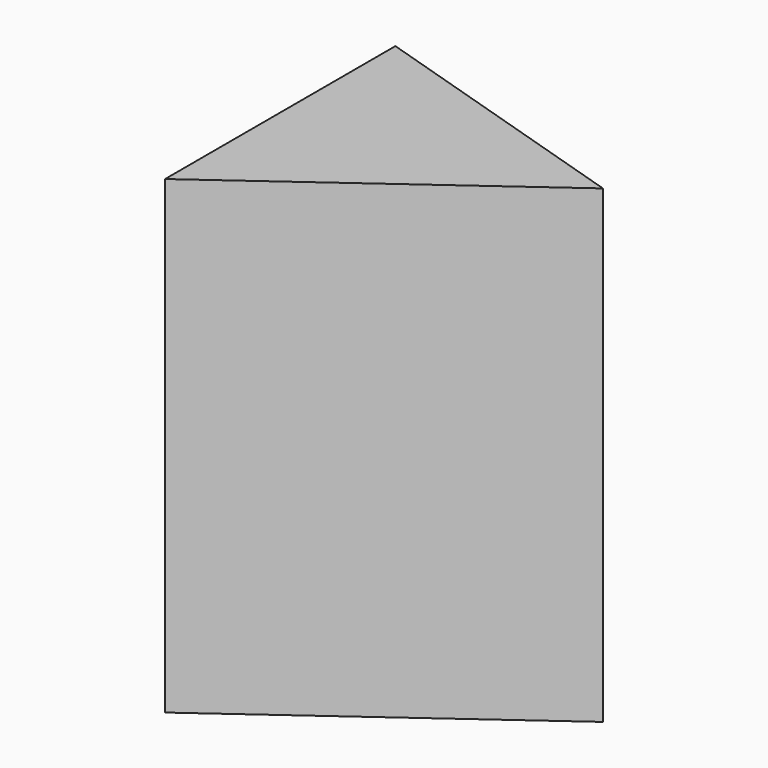
from build123d import *

# Parameters (mm, degrees)
F1_DEPTH = 152.4


with BuildPart() as f1:
    # F0 (on Top) → F1 (new body)
    with BuildSketch(Plane.XY):
        Polygon((-42.53009, 48.062608), (-42.53009, -45.361102), (47.324628, 19.930527), align=None)
    extrude(amount=-F1_DEPTH)


solid = f1.part
